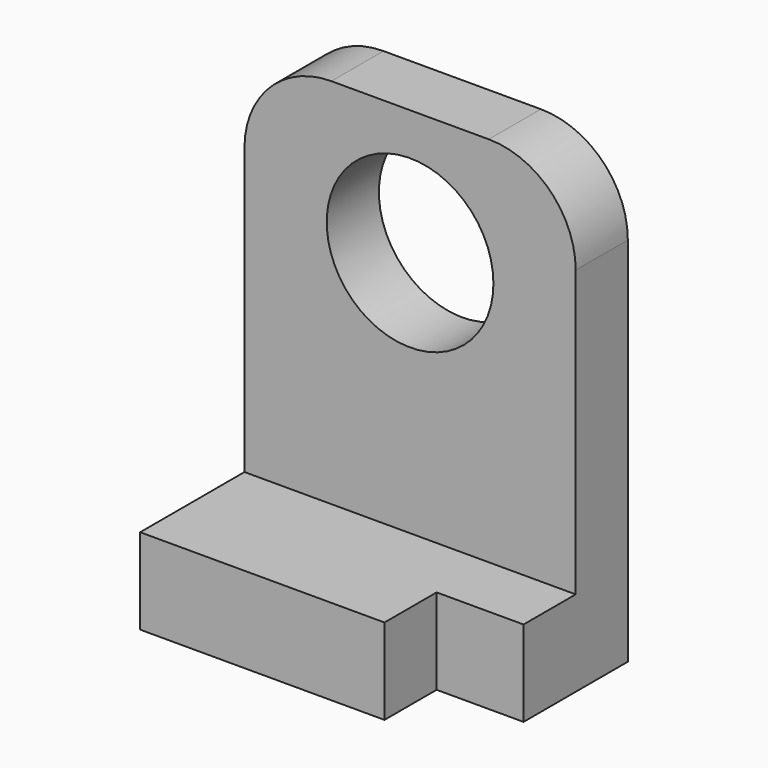
from build123d import *

# Parameters (mm, degrees)
F0_W     = 96.798718
F0_H     = 133.88981
F1_DEPTH = 19.05
F2_W     = 96.798718
F2_H     = 25.068198
F3_DEPTH = 38.1
F4_W     = 25.4
F4_H     = 25.068198
F5_DEPTH = 19.05
F6_R     = 24.355742
F7_DEPTH = 19.051
F8_R     = 25.4
F9_R     = 25.4


with BuildPart() as f1:
    # F0 (on Front) → F1 (new body)
    with BuildSketch(Plane.XZ):
        Rectangle(F0_W, F0_H)
    extrude(amount=F1_DEPTH)

    # F2 (on face) → F3 (join)
    with BuildSketch(Plane.XZ.offset(19.05)):
        with Locations((0, -54.410806)):
            Rectangle(F2_W, F2_H)
    extrude(amount=F3_DEPTH)

    # F4 (on face) → F5 (cut)
    with BuildSketch(Plane.XZ.offset(57.15)):
        with Locations((35.699359, -54.410806)):
            Rectangle(F4_W, F4_H)
    extrude(amount=-F5_DEPTH, mode=Mode.SUBTRACT)

    # F6 (on face) → F7 (cut, through all)
    with BuildSketch(Plane.XZ.offset(19.05)):
        with Locations((0, 30.258423)):
            Circle(F6_R)
    extrude(amount=-F7_DEPTH, mode=Mode.SUBTRACT)

    # F8
    f8_edges = [f1.edges().sort_by_distance(p)[0] for p in [
        (-48.399359, -9.525, 66.944905),
    ]]
    fillet(f8_edges, radius=F8_R)

    # F9
    f9_edges = [f1.edges().sort_by_distance(p)[0] for p in [
        (48.399359, -9.525, 66.944905),
    ]]
    fillet(f9_edges, radius=F9_R)


solid = f1.part
